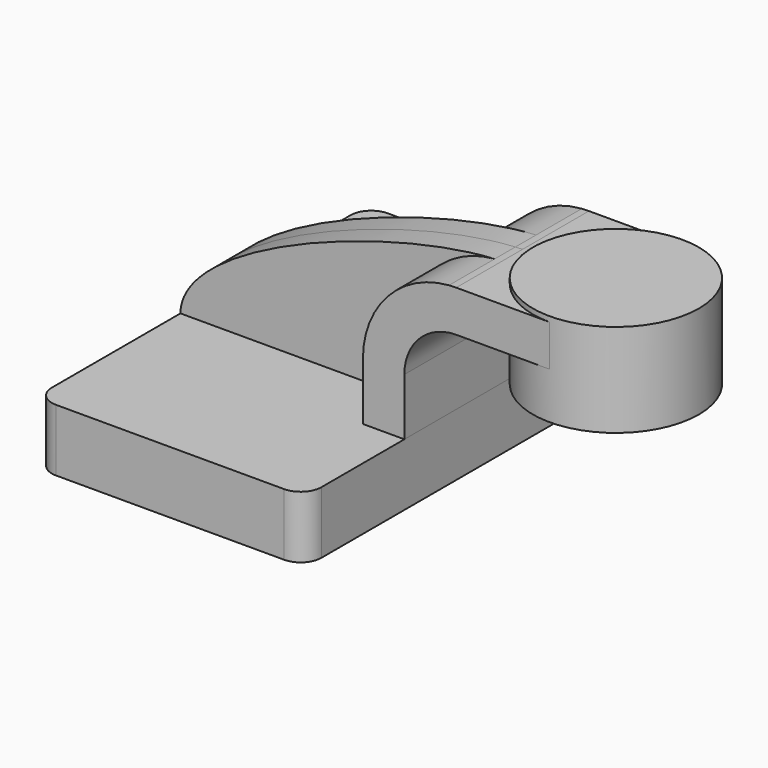
from build123d import *

# Parameters (mm, degrees)
F1_DEPTH = 63.5
F0_W     = 25.4
F0_H     = 12.7
F2_DEPTH = 25.4
F3_DEPTH = 7.9375
F5_R     = 6.35


with BuildPart() as f1:
    # F0 (on Front) → F1 (new body, symmetric)
    with BuildSketch(Plane.XZ):
        Polygon((-41.275, 9.525), (-41.275, -9.525), (41.275, -9.525), (41.275, 9.525), (28.575, 9.525), align=None)
    extrude(amount=F1_DEPTH, both=True)

    # F5
    f5_edges = [f1.edges().sort_by_distance(p)[0] for p in [
        (41.275, -63.5, 0),
        (-41.275, -63.5, 0),
        (41.275, 63.5, 0),
        (-41.275, 63.5, 0),
    ]]
    fillet(f5_edges, radius=F5_R)


with BuildPart() as f2:
    # F0 (on Front) → F2 (new body, symmetric)
    with BuildSketch(Plane.XZ):
        with BuildLine():
            Line((28.575, 9.525), (41.275, 9.525))
            Line((41.275, 9.525), (41.275, 27.0002))
            ThreePointArc((41.275, 27.0002), (45.9246798487, 38.2255201513), (57.15, 42.8752))
            Line((57.15, 42.8752), (60.325, 42.8752))
            Line((60.325, 42.8752), (60.325, 55.5752))
            Line((60.325, 55.5752), (57.15, 55.5752))
            add(Edge.make_bspline(
                [(54.9398971504, 55.4896027736), (55.6946241819, 55.5299590665), (56.431739579, 55.5585901401), (57.15, 55.5752)],
                knots=[106.1672440771, 106.1672440771, 106.1672440771, 106.1672440771, 108.6650888972, 108.6650888972, 108.6650888972, 108.6650888972], degree=3))
            ThreePointArc((54.9398971504, 55.4896027736), (36.1775858098, 46.4086638247), (28.575, 27.0002))
            Line((28.575, 27.0002), (28.575, 9.525))
        make_face()
        with Locations((73.025, 49.2252)):
            Rectangle(F0_W, F0_H)
    extrude(amount=F2_DEPTH, both=True)

    # F0 (on Front) → F4 (revolve)
    with BuildSketch(Plane.XZ):
        Polygon((85.725, 57.1627), (85.725, 55.5752), (85.725, 42.8752), (85.725, 28.5877), (111.125, 28.5877), (111.125, 57.1627), align=None)
    revolve(axis=Axis((85.725, 0, 42.8752), (0, 0, 1)))


with BuildPart() as f3:
    # F0 (on Front) → F3 (new body, symmetric)
    with BuildSketch(Plane.XZ):
        with BuildLine():
            add(Edge.make_bspline(
                [(-41.275, 9.525), (-41.0335543555, 30.8768277723), (22.8613275304, 53.7743175127), (54.9398971504, 55.4896027736)],
                knots=[0, 0, 0, 0, 106.1672440771, 106.1672440771, 106.1672440771, 106.1672440771], degree=3))
            Line((-41.275, 9.525), (28.575, 9.525))
            Line((28.575, 9.525), (28.575, 27.0002))
            ThreePointArc((28.575, 27.0002), (36.1775858098, 46.4086638247), (54.9398971504, 55.4896027736))
        make_face()
    extrude(amount=F3_DEPTH, both=True)


solid = Compound([f1.part, f2.part, f3.part])
